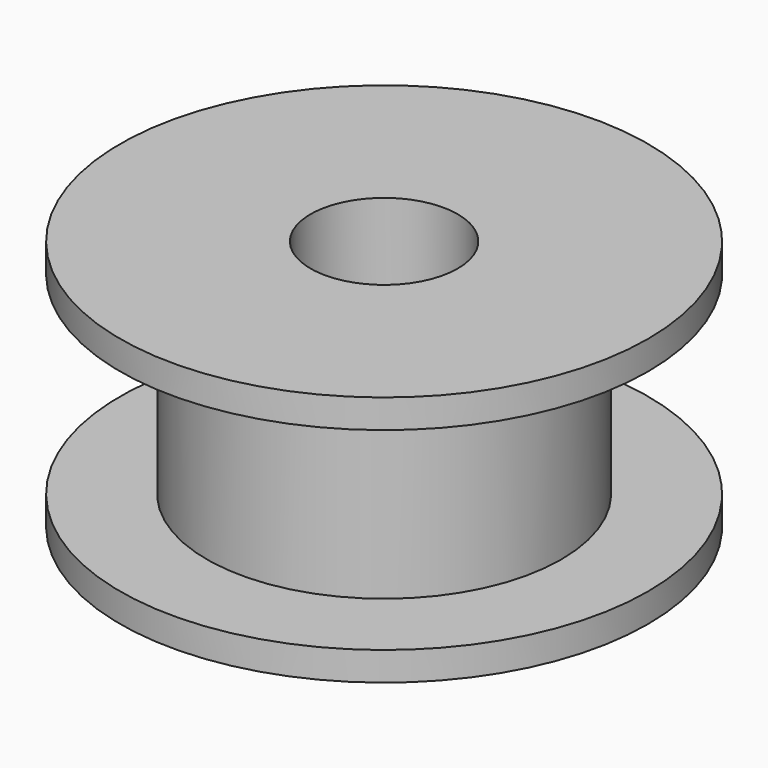
from build123d import *


with BuildPart() as part:
    # Sketch → Revolution (revolve)
    with BuildSketch(Plane.XZ):
        Polygon((2.51, 0), (2.51, 8.56), (9, 8.56), (9, 7.58), (6.045, 7.58), (6.045, 0.98), (9, 0.98), (9, 0), align=None)
    revolve(axis=Axis((0, 0, 0), (0, 0, 1)))


solid = part.part
